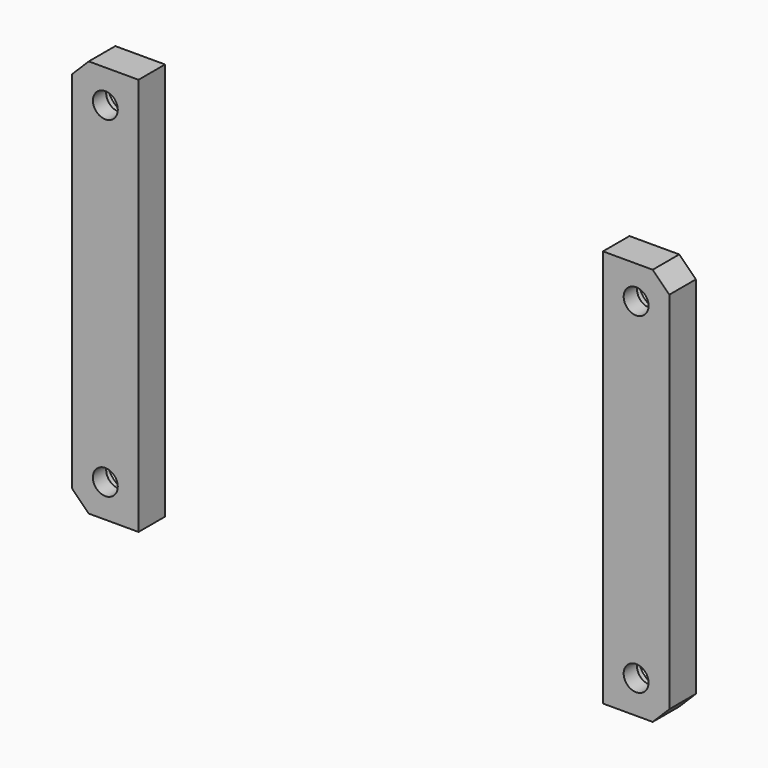
from build123d import *

# Parameters (mm, degrees)
CYLINDER887_R     = 3
CYLINDER887_DEPTH = 3
CYLINDER882_R     = 3
CYLINDER882_DEPTH = 3
CYLINDER883_R     = 3
CYLINDER883_DEPTH = 3
CYLINDER886_R     = 3
CYLINDER886_DEPTH = 3
CYLINDER885_R     = 1.5
CYLINDER885_DEPTH = 10
CYLINDER888_R     = 1.5
CYLINDER888_DEPTH = 10
CYLINDER889_R     = 1.5
CYLINDER889_DEPTH = 10
CYLINDER884_R     = 1.5
CYLINDER884_DEPTH = 10
BOX427_W          = 8
BOX427_H          = 4
BOX427_DEPTH      = 48
BOX426_W          = 8
BOX426_H          = 4
BOX426_DEPTH      = 48
CHAMFER026_SIZE   = 2
CHAMFER027_SIZE   = 2


with BuildPart() as obj1:
    # Cylinder887 → Cylinder887 (new body)
    with BuildSketch(Plane(origin=(62, 4, 70), x_dir=(1, 0, 0), z_dir=(0, -1, 0))):
        Circle(CYLINDER887_R)
    extrude(amount=CYLINDER887_DEPTH)


with BuildPart() as obj2:
    # Cylinder882 → Cylinder882 (new body)
    with BuildSketch(Plane(origin=(-2, 4, 30), x_dir=(1, 0, 0), z_dir=(0, -1, 0))):
        Circle(CYLINDER882_R)
    extrude(amount=CYLINDER882_DEPTH)


with BuildPart() as obj3:
    # Cylinder883 → Cylinder883 (new body)
    with BuildSketch(Plane(origin=(-2, 4, 70), x_dir=(1, 0, 0), z_dir=(0, -1, 0))):
        Circle(CYLINDER883_R)
    extrude(amount=CYLINDER883_DEPTH)


with BuildPart() as compound506:
    # Cylinder886 → Cylinder886 (new body)
    with BuildSketch(Plane(origin=(62, 4, 30), x_dir=(1, 0, 0), z_dir=(0, -1, 0))):
        Circle(CYLINDER886_R)
    extrude(amount=CYLINDER886_DEPTH)

    # Compound506: union obj1, obj2, obj3
    add(obj1.part)
    add(obj2.part)
    add(obj3.part)


with BuildPart() as compound506_1:
    # Compound506 placement: moved
    add(compound506.part.moved(Location((0, 1, 0))))


with BuildPart() as obj4:
    # Cylinder885 → Cylinder885 (new body)
    with BuildSketch(Plane(origin=(-2, 4, 70), x_dir=(1, 0, 0), z_dir=(0, -1, 0))):
        Circle(CYLINDER885_R)
    extrude(amount=CYLINDER885_DEPTH)


with BuildPart() as obj5:
    # Cylinder888 → Cylinder888 (new body)
    with BuildSketch(Plane(origin=(62, 4, 30), x_dir=(1, 0, 0), z_dir=(0, -1, 0))):
        Circle(CYLINDER888_R)
    extrude(amount=CYLINDER888_DEPTH)


with BuildPart() as obj6:
    # Cylinder889 → Cylinder889 (new body)
    with BuildSketch(Plane(origin=(62, 4, 70), x_dir=(1, 0, 0), z_dir=(0, -1, 0))):
        Circle(CYLINDER889_R)
    extrude(amount=CYLINDER889_DEPTH)


with BuildPart() as compound507:
    # Cylinder884 → Cylinder884 (new body)
    with BuildSketch(Plane(origin=(-2, 4, 30), x_dir=(1, 0, 0), z_dir=(0, -1, 0))):
        Circle(CYLINDER884_R)
    extrude(amount=CYLINDER884_DEPTH)

    # Compound507: union obj4, obj5, obj6
    add(obj4.part)
    add(obj5.part)
    add(obj6.part)


with BuildPart() as krychle427:
    # Box427 → Box427 (new body)
    with BuildSketch(Plane(origin=(58, 0, 26), x_dir=(1, 0, 0), z_dir=(0, 0, 1))):
        with Locations((4, 2)):
            Rectangle(BOX427_W, BOX427_H)
    extrude(amount=BOX427_DEPTH)


with BuildPart() as chamfer027:
    # Box426 → Box426 (new body)
    with BuildSketch(Plane(origin=(-6, 0, 26), x_dir=(1, 0, 0), z_dir=(0, 0, 1))):
        with Locations((4, 2)):
            Rectangle(BOX426_W, BOX426_H)
    extrude(amount=BOX426_DEPTH)

    # Compound505: union Krychle427
    add(krychle427.part)

    # Cut024: cut Compound507
    add(compound507.part, mode=Mode.SUBTRACT)

    # Cut025: cut Compound506
    add(compound506_1.part, mode=Mode.SUBTRACT)

    # Chamfer026
    chamfer026_edges = [chamfer027.edges().sort_by_distance(p)[0] for p in [
        (66, 2, 74),
        (66, 2, 26),
    ]]
    chamfer(chamfer026_edges, length=CHAMFER026_SIZE)

    # Chamfer027
    chamfer027_edges = [chamfer027.edges().sort_by_distance(p)[0] for p in [
        (-6, 2, 74),
        (-6, 2, 26),
    ]]
    chamfer(chamfer027_edges, length=CHAMFER027_SIZE)


solid = chamfer027.part
